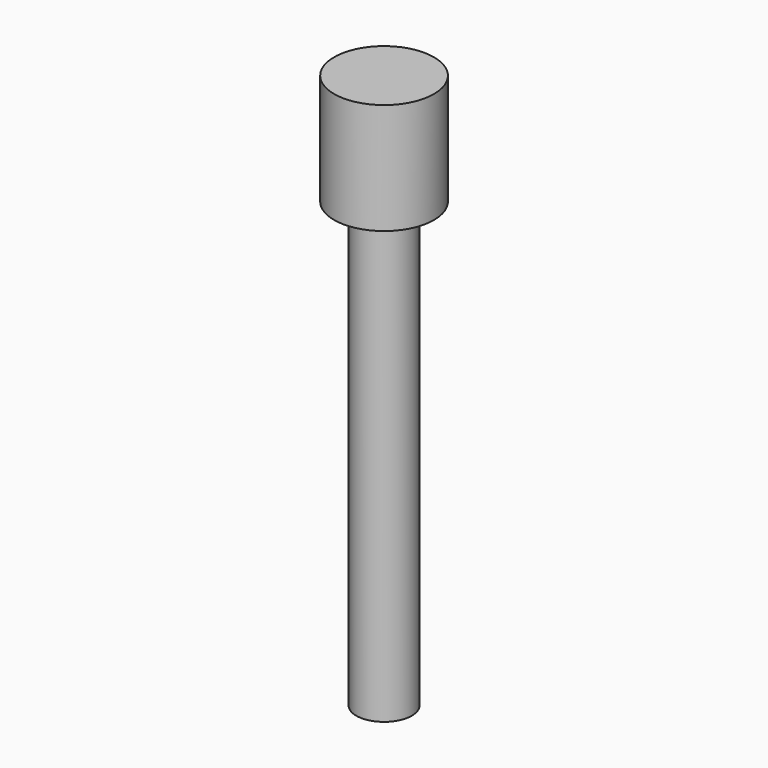
from build123d import *

# Parameters (mm, degrees)
SKETCH_R     = 2.5
PAD_DEPTH    = 50
SKETCH001_R  = 4.5
PAD001_DEPTH = 10


with BuildPart() as part:
    # Sketch → Pad (new body)
    with BuildSketch(Plane.XY):
        Circle(SKETCH_R)
    extrude(amount=PAD_DEPTH)

    # Sketch001 (on Face3 of Pad) → Pad001 (join)
    with BuildSketch(Plane.XY.offset(50)):
        Circle(SKETCH001_R)
    extrude(amount=-PAD001_DEPTH)


solid = part.part
